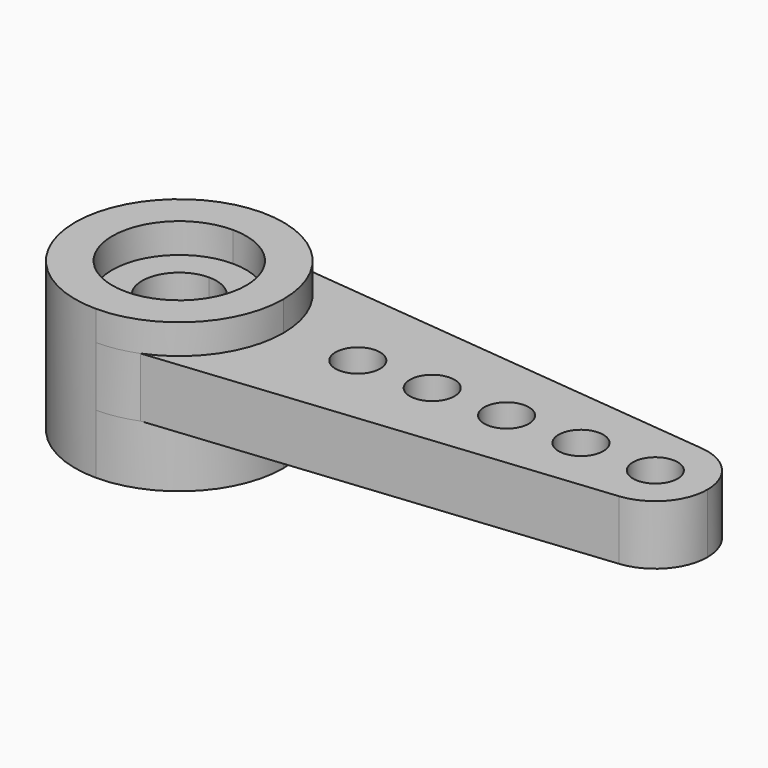
from build123d import *

# Parameters (mm, degrees)
PAD004_DEPTH     = 2
PAD024_DEPTH     = 1
PAD025_DEPTH     = 2
SKETCH009_R      = 2.25
POCKET023_DEPTH  = 3
REVOLUTION_ANGLE = -180


with BuildPart() as part:
    # Sketch046 → Pad004 (new body)
    with BuildSketch(Plane.XY):
        with BuildLine():
            ThreePointArc((1.2990381057, 3.25), (0.6614378278, 3.4369317712), (0, 3.5))
            Line((0, 3.5), (0, 1.25))
            ThreePointArc((1.25, 0), (0.8838834765, 0.8838834765), (0, 1.25))
            Line((1.25, 0), (5.25, 0))
            ThreePointArc((6.75, 0), (6, 0.75), (5.25, 0))
            Line((6.75, 0), (7.75, 0))
            ThreePointArc((9.25, 0), (8.5, 0.75), (7.75, 0))
            Line((9.25, 0), (10.25, 0))
            ThreePointArc((11.75, 0), (11, 0.75), (10.25, 0))
            Line((11.75, 0), (12.75, 0))
            ThreePointArc((14.25, 0), (13.5, 0.75), (12.75, 0))
            Line((14.25, 0), (15.25, 0))
            ThreePointArc((16.75, 0), (16, 0.75), (15.25, 0))
            Line((16.75, 0), (17.75, 0))
            ThreePointArc((17.75, 0), (17.2983689647, 1.1733448051), (16.1765851067, 1.7410679769))
            Line((1.2990381057, 3.25), (16.1765851067, 1.7410679769))
        make_face()
    extrude(amount=PAD004_DEPTH)

    # Sketch047 → Pad024 (join)
    with BuildSketch(Plane.XY.offset(2)):
        with BuildLine():
            ThreePointArc((3.5, 0), (2.4748737342, 2.4748737342), (0, 3.5))
            Line((0, 3.5), (0, 2.25))
            ThreePointArc((2.25, 0), (1.5909902577, 1.5909902577), (0, 2.25))
            Line((2.25, 0), (3.5, 0))
        make_face()
    extrude(amount=PAD024_DEPTH)

    # Sketch048 → Pad025 (join)
    with BuildSketch(Plane.XY):
        with BuildLine():
            ThreePointArc((3.5, 0), (2.4748737342, 2.4748737342), (0, 3.5))
            Line((0, 3.5), (0, 1.25))
            ThreePointArc((1.25, 0), (0.8838834765, 0.8838834765), (0, 1.25))
            Line((3.5, 0), (1.25, 0))
        make_face()
    extrude(amount=-PAD025_DEPTH)

    # Sketch009 → Pocket023 (cut)
    with BuildSketch(Plane.XY.offset(-2)):
        Circle(SKETCH009_R)
    extrude(amount=POCKET023_DEPTH, mode=Mode.SUBTRACT)

    # Mirrored009: part across Sketch009 H_Axis


with BuildPart() as part_1:
    add(part.part)
    add(part.part.mirror(Plane(origin=(0, 0, -2), x_dir=(0, 0, 1), z_dir=(0, 1, 0))))

    # Mirrored009 Face3 → Revolution (revolve)
    with BuildSketch(Plane(origin=(0, -2.7198275862, 0.6379310345), x_dir=(0, 1, 0), z_dir=(-1, 0, 0))):
        Polygon((0.4698275862, 2.6379310345), (-0.7801724138, 2.6379310345), (-0.7801724138, -2.3620689655), (0.4698275862, -2.3620689655), (0.4698275862, -1.3620689655), (1.4698275862, -1.3620689655), (1.4698275862, -0.3620689655), (0.4698275862, -0.3620689655), align=None)
    revolve(axis=Axis((0, 0, 0), (0, 0, 1)), revolution_arc=REVOLUTION_ANGLE)


with BuildPart() as part_2:
    # Body002 placement: moved
    add(part_1.part.moved(Location((0, 0, 7))))


solid = part_2.part
